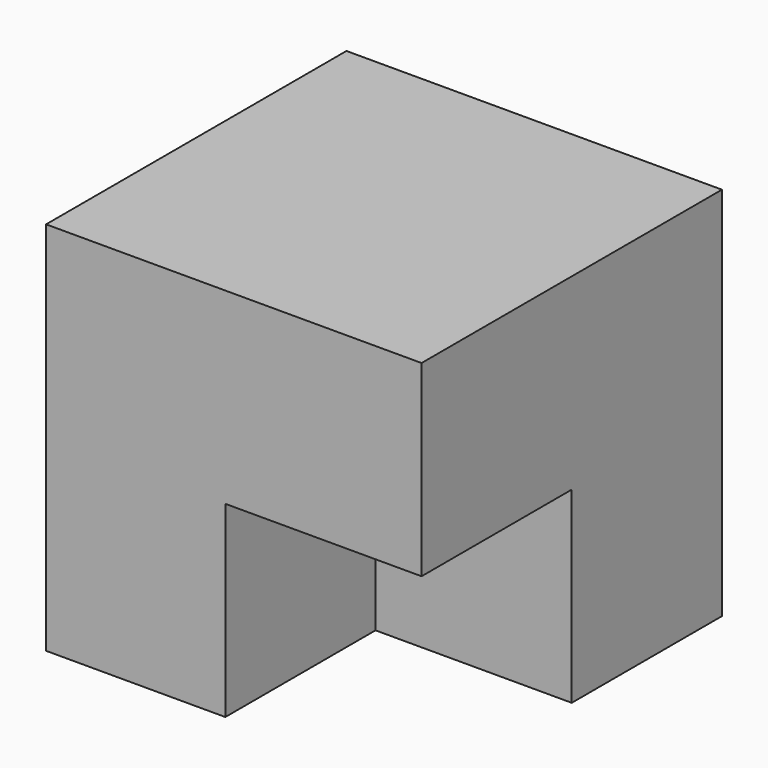
from build123d import *

# Parameters (mm, degrees)
F0_W     = 50.8
F0_H     = 50.8
F1_DEPTH = 50.8
F2_W     = 25.4
F2_H     = 25.4
F3_DEPTH = 50.8
F4_W     = 25.4
F4_H     = 25.4
F5_DEPTH = 101.6
F6_W     = 26.5487587631
F6_H     = 25.4
F7_DEPTH = 25.4


with BuildPart() as f1:
    # F0 (on Front) → F1 (new body)
    with BuildSketch(Plane.XZ):
        with Locations((-19.4743440211, 25.4)):
            Rectangle(F0_W, F0_H)
    extrude(amount=F1_DEPTH)

    # F2 (on Top) → F3 (cut)
    with BuildSketch(Plane.XY):
        with Locations((-32.7472079873, -12.7)):
            Rectangle(F2_W, F2_H)
        with Locations((-32.7472079873, -38.1)):
            Rectangle(F2_W, F2_H)
        with Locations((-7.3472079873, -38.1)):
            Rectangle(F2_W, F2_H)
    extrude(amount=-F3_DEPTH, mode=Mode.SUBTRACT)

    # F4 (on Top) → F5 (cut)
    with BuildSketch(Plane.XY):
        with Locations((-12.7, -17.0889281064)):
            Rectangle(F4_W, F4_H)
    extrude(amount=-F5_DEPTH, mode=Mode.SUBTRACT)

    # F6 (on face) → F7 (cut)
    with BuildSketch(Plane.XZ.offset(50.8)):
        with Locations((-7.3487234026, 12.7)):
            Rectangle(F6_W, F6_H)
    extrude(amount=-F7_DEPTH, mode=Mode.SUBTRACT)


solid = f1.part
